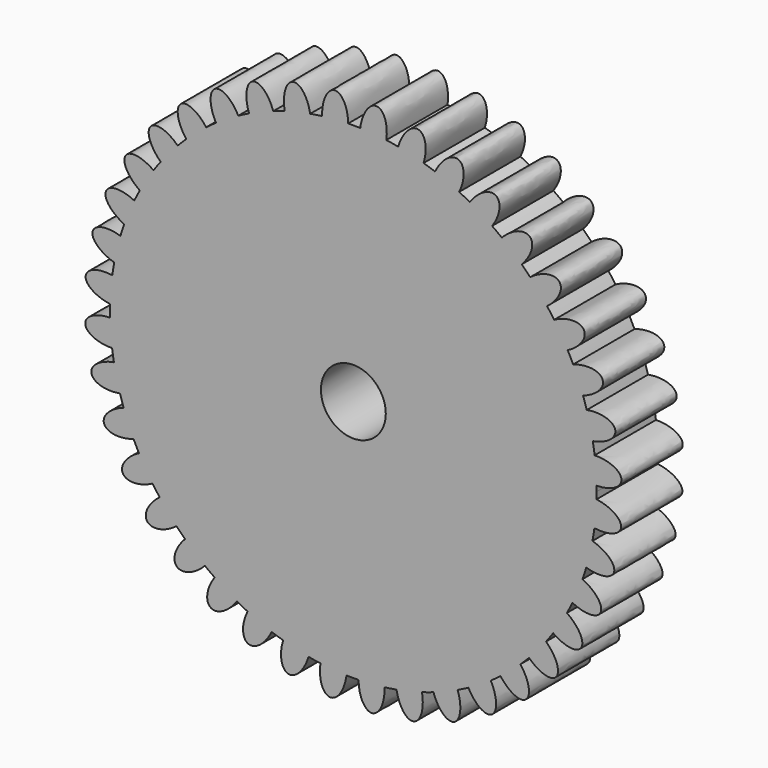
from build123d import *

# Parameters (mm, degrees)
F1_DEPTH = 6


with BuildPart() as f1:
    # F0 (on Front) → F1 (new body)
    with BuildSketch(Plane.XZ):
        with BuildLine():
            ThreePointArc((19.0635328343, -0.9611917266), (19.0692675678, -0.6913712295), (19.0711792735, -0.4214965675))
            ThreePointArc((19.0711792735, -0.4214965675), (19.0700978224, -0.2185135199), (19.0668535919, -0.0155535187))
            ThreePointArc((19.0668535919, -0.0155535187), (19.0175860362, 1.0064495468), (18.9135167865, 2.0243332088))
            ThreePointArc((18.9135167865, 2.0243332088), (18.846991093, 2.4924885622), (18.7688662529, 2.9588485221))
            ThreePointArc((18.7688662529, 2.9588485221), (18.5603287598, 3.9605618902), (18.2983086891, 4.9496336979))
            ThreePointArc((18.2983086891, 4.9496336979), (18.159366405, 5.4016183707), (18.0092486404, 5.850015248))
            ThreePointArc((18.0092486404, 5.850015248), (17.646576095, 6.8067734112), (17.2330570071, 7.742679134))
            ThreePointArc((17.2330570071, 7.742679134), (17.0251193526, 8.1673637636), (16.8067050612, 8.5867565391))
            ThreePointArc((16.8067050612, 8.5867565391), (16.2988276652, 9.475000936), (15.7439917724, 10.334695469))
            ThreePointArc((15.7439917724, 10.334695469), (15.4721788626, 10.7216229104), (15.1908461291, 11.101684742))
            ThreePointArc((15.1908461291, 11.101684742), (14.5502695095, 11.8995438477), (13.8677787129, 12.6618586584))
            ThreePointArc((13.8677787129, 12.6618586584), (13.5387834838, 13.0015014737), (13.2014596537, 13.3328739779))
            ThreePointArc((13.2014596537, 13.3328739779), (12.443956933, 14.0207018532), (11.650616421, 14.6668662209))
            ThreePointArc((11.650616421, 14.6668662209), (11.272539827, 14.9508612769), (10.8875309326, 15.2253849627))
            ThreePointArc((10.8875309326, 15.2253849627), (10.0317543417, 15.7862450027), (9.1470987906, 16.3003482161))
            ThreePointArc((9.1470987906, 16.3003482161), (8.7292503322, 16.521702612), (8.3060365703, 16.7326177953))
            ThreePointArc((8.3060365703, 16.7326177953), (7.3730581689, 17.1526997643), (6.4188707346, 17.5220828962))
            ThreePointArc((6.4188707346, 17.5220828962), (5.9715392275, 17.6753461521), (5.5205415254, 17.817459401))
            ThreePointArc((5.5205415254, 17.817459401), (4.5333343383, 18.0864194868), (3.533110282, 18.3019870985))
            ThreePointArc((3.533110282, 18.3019870985), (3.0673105127, 18.3833853644), (2.5996339306, 18.4531973792))
            ThreePointArc((2.5996339306, 18.4531973792), (1.582506275, 18.5644128918), (0.5608744326, 18.6208569933))
            Line((0.5608744326, 18.6208569933), (0.0931386281, 2.1174839073))
            ThreePointArc((0.0931386281, 2.1174839073), (1.8424942875, 1.3489303922), (2.5611792735, -0.4214965675))
            ThreePointArc((2.5611792735, -0.4214965675), (-1.6556151358, -2.3293646208), (-0.3049313633, 2.0974817676))
            Line((-0.3049313633, 2.0974817676), (-2.4246505028, 18.4708409455))
            ThreePointArc((-2.4246505028, 18.4708409455), (-2.8928058562, 18.404315252), (-3.359165816, 18.3261904119))
            ThreePointArc((-3.359165816, 18.3261904119), (-4.3608791842, 18.1176529187), (-5.3499509918, 17.8556328481))
            ThreePointArc((-5.3499509918, 17.8556328481), (-5.8019356647, 17.716690564), (-6.250332542, 17.5665727994))
            ThreePointArc((-6.250332542, 17.5665727994), (-7.2070907052, 17.203900254), (-8.142996428, 16.7903811661))
            ThreePointArc((-8.142996428, 16.7903811661), (-8.5676810576, 16.5824435116), (-8.9870738331, 16.3640292202))
            ThreePointArc((-8.9870738331, 16.3640292202), (-9.87531823, 15.8561518242), (-10.735012763, 15.3013159314))
            ThreePointArc((-10.735012763, 15.3013159314), (-11.1219402044, 15.0295030216), (-11.502002036, 14.7481702881))
            ThreePointArc((-11.502002036, 14.7481702881), (-12.2998611417, 14.1075936685), (-13.0621759523, 13.4251028719))
            ThreePointArc((-13.0621759523, 13.4251028719), (-13.4018187677, 13.0961076428), (-13.7331912718, 12.7587838127))
            ThreePointArc((-13.7331912718, 12.7587838127), (-14.4210191472, 12.001281092), (-15.0671835148, 11.20794058))
            ThreePointArc((-15.0671835148, 11.20794058), (-15.3511785709, 10.829863986), (-15.6257022567, 10.4448550916))
            ThreePointArc((-15.6257022567, 10.4448550916), (-16.1865622966, 9.5890785006), (-16.7006655101, 8.7044229496))
            ThreePointArc((-16.7006655101, 8.7044229496), (-16.922019906, 8.2865744912), (-17.1329350893, 7.8633607293))
            ThreePointArc((-17.1329350893, 7.8633607293), (-17.5530170582, 6.9303823279), (-17.9224001902, 5.9761948936))
            ThreePointArc((-17.9224001902, 5.9761948936), (-18.0756634461, 5.5288633865), (-18.217776695, 5.0778656844))
            ThreePointArc((-18.217776695, 5.0778656844), (-18.4867367807, 4.0906584973), (-18.7023043925, 3.090434441))
            ThreePointArc((-18.7023043925, 3.090434441), (-18.7837026584, 2.6246346717), (-18.8535146732, 2.1569580896))
            ThreePointArc((-18.8535146732, 2.1569580896), (-18.9647301857, 1.139830434), (-19.0211742873, 0.1181985916))
            ThreePointArc((-19.0211742873, 0.1181985916), (-19.0287032678, -0.3545999038), (-19.0244950448, -0.8274396163))
            ThreePointArc((-19.0244950448, -0.8274396163), (-18.9752274892, -1.8494426818), (-18.8711582395, -2.8673263438))
            ThreePointArc((-18.8711582395, -2.8673263438), (-18.804632546, -3.3354816972), (-18.7265077058, -3.801841657))
            ThreePointArc((-18.7265077058, -3.801841657), (-18.5179702127, -4.8035550252), (-18.255950142, -5.7926268328))
            ThreePointArc((-18.255950142, -5.7926268328), (-18.117007858, -6.2446115057), (-17.9668900934, -6.693008383))
            ThreePointArc((-17.9668900934, -6.693008383), (-17.604217548, -7.6497665462), (-17.19069846, -8.585672269))
            ThreePointArc((-17.19069846, -8.585672269), (-16.9827608055, -9.0103568986), (-16.7643465141, -9.4297496741))
            ThreePointArc((-16.7643465141, -9.4297496741), (-16.2564691181, -10.317994071), (-15.7016332253, -11.177688604))
            ThreePointArc((-15.7016332253, -11.177688604), (-15.4298203155, -11.5646160454), (-15.148487582, -11.944677877))
            ThreePointArc((-15.148487582, -11.944677877), (-14.5079109625, -12.7425369827), (-13.8254201658, -13.5048517933))
            ThreePointArc((-13.8254201658, -13.5048517933), (-13.4964249367, -13.8444946087), (-13.1591011067, -14.1758671128))
            ThreePointArc((-13.1591011067, -14.1758671128), (-12.401598386, -14.8636949882), (-11.6082578739, -15.5098593558))
            ThreePointArc((-11.6082578739, -15.5098593558), (-11.2301812799, -15.7938544119), (-10.8451723856, -16.0683780977))
            ThreePointArc((-10.8451723856, -16.0683780977), (-9.9893957946, -16.6292381377), (-9.1047402436, -17.1433413511))
            ThreePointArc((-9.1047402436, -17.1433413511), (-8.6868917851, -17.364695747), (-8.2636780232, -17.5756109303))
            ThreePointArc((-8.2636780232, -17.5756109303), (-7.3306996219, -17.9956928992), (-6.3765121875, -18.3650760312))
            ThreePointArc((-6.3765121875, -18.3650760312), (-5.9291806805, -18.5183392871), (-5.4781829784, -18.660452536))
            ThreePointArc((-5.4781829784, -18.660452536), (-4.4909757913, -18.9294126217), (-3.490751735, -19.1449802335))
            ThreePointArc((-3.490751735, -19.1449802335), (-3.0249519656, -19.2263784994), (-2.5572753836, -19.2961905142))
            ThreePointArc((-2.5572753836, -19.2961905142), (-1.540147728, -19.4074060267), (-0.5185158855, -19.4638501283))
            ThreePointArc((-0.5185158855, -19.4638501283), (-0.0457173901, -19.4713791088), (0.4271223223, -19.4671708858))
            ThreePointArc((0.4271223223, -19.4671708858), (1.4491253879, -19.4179033302), (2.4670090498, -19.3138340805))
            ThreePointArc((2.4670090498, -19.3138340805), (2.9351644032, -19.247308387), (3.4015243631, -19.1691835468))
            ThreePointArc((3.4015243631, -19.1691835468), (4.4032377313, -18.9606460537), (5.3923095389, -18.698625983))
            ThreePointArc((5.3923095389, -18.698625983), (5.8442942117, -18.559683699), (6.292691089, -18.4095659344))
            ThreePointArc((6.292691089, -18.4095659344), (7.2494492522, -18.046893389), (8.185354975, -17.6333743011))
            ThreePointArc((8.185354975, -17.6333743011), (8.6100396046, -17.4254366466), (9.0294323801, -17.2070223551))
            ThreePointArc((9.0294323801, -17.2070223551), (9.917676777, -16.6991449592), (10.77737131, -16.1443090663))
            ThreePointArc((10.77737131, -16.1443090663), (11.1642987514, -15.8724961566), (11.544360583, -15.591163423))
            ThreePointArc((11.544360583, -15.591163423), (12.3422196887, -14.9505868035), (13.1045344994, -14.2680960068))
            ThreePointArc((13.1045344994, -14.2680960068), (13.4441773147, -13.9391007777), (13.7755498189, -13.6017769477))
            ThreePointArc((13.7755498189, -13.6017769477), (14.4633776942, -12.844274227), (15.1095420619, -12.0509337149))
            ThreePointArc((15.1095420619, -12.0509337149), (15.3935371179, -11.6728571209), (15.6680608038, -11.2878482266))
            ThreePointArc((15.6680608038, -11.2878482266), (16.2289208437, -10.4320716356), (16.7430240571, -9.5474160846))
            ThreePointArc((16.7430240571, -9.5474160846), (16.9643784531, -9.1295676262), (17.1752936363, -8.7063538642))
            ThreePointArc((17.1752936363, -8.7063538642), (17.5953756053, -7.7733754629), (17.9647587372, -6.8191880285))
            ThreePointArc((17.9647587372, -6.8191880285), (18.1180219931, -6.3718565215), (18.2601352421, -5.9208588194))
            ThreePointArc((18.2601352421, -5.9208588194), (18.5290953278, -4.9336516323), (18.7446629395, -3.933427576))
            ThreePointArc((18.7446629395, -3.933427576), (18.8260612055, -3.4676278066), (18.8958732202, -2.9999512246))
            ThreePointArc((18.8958732202, -2.9999512246), (19.0070887328, -1.982823569), (19.0635328343, -0.9611917266))
        make_face()
        with BuildLine():
            ThreePointArc((18.9135167865, 2.0243332088), (19.0175860362, 1.0064495468), (19.0668535919, -0.0155535187))
            add(Edge.make_bspline(
                [(19.0668535919, -0.0155535187), (21.0910054041, 0.0099202739), (21.0132651128, 1.0441233025), (20.9355248215, 2.078326331), (18.9135167865, 2.0243332088)],
                knots=[1.5954119774, 1.5954119774, 1.5954119774, 3.1799968121, 3.1799968121, 4.7645816468, 4.7645816468, 4.7645816468], degree=2, weights=[1, 0.7022150415, 1, 0.7022150415, 1]))
        make_face()
        with BuildLine():
            add(Edge.make_bspline(
                [(18.8958732202, -2.9999512246), (20.8990893439, -3.2914381625), (20.9840911621, -2.2578066285), (21.0690929802, -1.2241750945), (19.0635328343, -0.9611917266)],
                knots=[1.5954119774, 1.5954119774, 1.5954119774, 3.1799968121, 3.1799968121, 4.7645816468, 4.7645816468, 4.7645816468], degree=2, weights=[1, 0.7022150415, 1, 0.7022150415, 1]))
            ThreePointArc((19.0635328343, -0.9611917266), (19.0070887328, -1.982823569), (18.8958732202, -2.9999512246))
        make_face()
        with BuildLine():
            ThreePointArc((18.2983086891, 4.9496336979), (18.5603287598, 3.9605618902), (18.7688662529, 2.9588485221))
            add(Edge.make_bspline(
                [(18.7688662529, 2.9588485221), (20.7641124183, 3.3006557959), (20.5255442414, 4.3099648081), (20.2869760646, 5.3192738204), (18.2983086891, 4.9496336979)],
                knots=[1.5954119774, 1.5954119774, 1.5954119774, 3.1799968121, 3.1799968121, 4.7645816468, 4.7645816468, 4.7645816468], degree=2, weights=[1, 0.7022150415, 1, 0.7022150415, 1]))
        make_face()
        with BuildLine():
            add(Edge.make_bspline(
                [(18.2601352421, -5.9208588194), (20.1930898479, -6.5221291121), (20.4387407487, -5.5145205115), (20.6843916495, -4.5069119108), (18.7446629395, -3.933427576)],
                knots=[1.5954119774, 1.5954119774, 1.5954119774, 3.1799968121, 3.1799968121, 4.7645816468, 4.7645816468, 4.7645816468], degree=2, weights=[1, 0.7022150415, 1, 0.7022150415, 1]))
            ThreePointArc((18.7446629395, -3.933427576), (18.5290953278, -4.9336516323), (18.2601352421, -5.9208588194))
        make_face()
        with BuildLine():
            ThreePointArc((17.2330570071, 7.742679134), (17.646576095, 6.8067734112), (18.0092486404, 5.850015248))
            add(Edge.make_bspline(
                [(18.0092486404, 5.850015248), (19.9264595766, 6.4997395736), (19.5329378545, 7.4593020319), (19.1394161324, 8.4188644903), (17.2330570071, 7.742679134)],
                knots=[1.5954119774, 1.5954119774, 1.5954119774, 3.1799968121, 3.1799968121, 4.7645816468, 4.7645816468, 4.7645816468], degree=2, weights=[1, 0.7022150415, 1, 0.7022150415, 1]))
        make_face()
        with BuildLine():
            add(Edge.make_bspline(
                [(17.1752936363, -8.7063538643), (18.9903909668, -9.6026022416), (19.3906422098, -8.6458272421), (19.7908934528, -7.6890522426), (17.9647587372, -6.8191880285)],
                knots=[1.5954119774, 1.5954119774, 1.5954119774, 3.1799968121, 3.1799968121, 4.7645816468, 4.7645816468, 4.7645816468], degree=2, weights=[1, 0.7022150415, 1, 0.7022150415, 1]))
            ThreePointArc((17.9647587372, -6.8191880285), (17.5953756053, -7.7733754629), (17.1752936363, -8.7063538642))
        make_face()
        with BuildLine():
            ThreePointArc((15.7439917724, 10.334695469), (16.2988276652, 9.475000936), (16.8067050612, 8.5867565391))
            add(Edge.make_bspline(
                [(16.8067050612, 8.5867565391), (18.598672672, 9.5283995473), (18.0598872155, 10.4145878394), (17.5211017589, 11.3007761314), (15.7439917724, 10.334695469)],
                knots=[1.5954119774, 1.5954119774, 1.5954119774, 3.1799968121, 3.1799968121, 4.7645816468, 4.7645816468, 4.7645816468], degree=2, weights=[1, 0.7022150415, 1, 0.7022150415, 1]))
        make_face()
        with BuildLine():
            add(Edge.make_bspline(
                [(15.6680608038, -11.2878482266), (17.3206071387, -12.4570060791), (17.8656032099, -11.5746236566), (18.4105992811, -10.6922412341), (16.7430240571, -9.5474160846)],
                knots=[1.5954119774, 1.5954119774, 1.5954119774, 3.1799968121, 3.1799968121, 4.7645816468, 4.7645816468, 4.7645816468], degree=2, weights=[1, 0.7022150415, 1, 0.7022150415, 1]))
            ThreePointArc((16.7430240571, -9.5474160846), (16.2289208437, -10.4320716356), (15.6680608038, -11.2878482266))
        make_face()
        with BuildLine():
            ThreePointArc((13.8677787129, 12.6618586584), (14.5502695095, 11.8995438477), (15.1908461291, 11.101684742))
            add(Edge.make_bspline(
                [(15.1908461291, 11.101684742), (16.8134462248, 12.3120600568), (16.1426637199, 13.1030532858), (15.471881215, 13.8940465148), (13.8677787129, 12.6618586584)],
                knots=[1.5954119774, 1.5954119774, 1.5954119774, 3.1799968121, 3.1799968121, 4.7645816468, 4.7645816468, 4.7645816468], degree=2, weights=[1, 0.7022150415, 1, 0.7022150415, 1]))
        make_face()
        with BuildLine():
            add(Edge.make_bspline(
                [(13.7755498189, -13.6017769477), (15.224853983, -15.0150557288), (15.9011752704, -14.228793067), (16.5774965578, -13.4425304052), (15.1095420619, -12.0509337149)],
                knots=[1.5954119774, 1.5954119774, 1.5954119774, 3.1799968121, 3.1799968121, 4.7645816468, 4.7645816468, 4.7645816468], degree=2, weights=[1, 0.7022150415, 1, 0.7022150415, 1]))
            ThreePointArc((15.1095420619, -12.0509337149), (14.4633776942, -12.844274227), (13.7755498189, -13.6017769477))
        make_face()
        with BuildLine():
            ThreePointArc((11.650616421, 14.6668662209), (12.443956933, 14.0207018532), (13.2014596537, 13.3328739779))
            add(Edge.make_bspline(
                [(13.2014596537, 13.3328739779), (14.6147384348, 14.782178142), (13.828475773, 15.4584994294), (13.0422131113, 16.1348207168), (11.650616421, 14.6668662209)],
                knots=[1.5954119774, 1.5954119774, 1.5954119774, 3.1799968121, 3.1799968121, 4.7645816468, 4.7645816468, 4.7645816468], degree=2, weights=[1, 0.7022150415, 1, 0.7022150415, 1]))
        make_face()
        with BuildLine():
            add(Edge.make_bspline(
                [(11.544360583, -15.591163423), (12.7547358978, -17.2137635187), (13.5457291268, -16.5429810138), (14.3367223558, -15.8721985089), (13.1045344994, -14.2680960068)],
                knots=[1.5954119774, 1.5954119774, 1.5954119774, 3.1799968121, 3.1799968121, 4.7645816468, 4.7645816468, 4.7645816468], degree=2, weights=[1, 0.7022150415, 1, 0.7022150415, 1]))
            ThreePointArc((13.1045344994, -14.2680960068), (12.3422196887, -14.9505868035), (11.544360583, -15.591163423))
        make_face()
        with BuildLine():
            ThreePointArc((9.1470987906, 16.3003482161), (10.0317543417, 15.7862450027), (10.8875309326, 15.2253849627))
            add(Edge.make_bspline(
                [(10.8875309326, 15.2253849627), (12.0566887851, 16.8779312977), (11.1743063626, 17.4229273689), (10.2919239401, 17.9679234401), (9.1470987906, 16.3003482161)],
                knots=[1.5954119774, 1.5954119774, 1.5954119774, 3.1799968121, 3.1799968121, 4.7645816468, 4.7645816468, 4.7645816468], degree=2, weights=[1, 0.7022150415, 1, 0.7022150415, 1]))
        make_face()
        with BuildLine():
            add(Edge.make_bspline(
                [(9.0294323801, -17.2070223551), (9.9710753883, -18.998989966), (10.8572636804, -18.4602045094), (11.7434519724, -17.9214190529), (10.77737131, -16.1443090663)],
                knots=[1.5954119774, 1.5954119774, 1.5954119774, 3.1799968121, 3.1799968121, 4.7645816468, 4.7645816468, 4.7645816468], degree=2, weights=[1, 0.7022150415, 1, 0.7022150415, 1]))
            ThreePointArc((10.77737131, -16.1443090663), (9.917676777, -16.6991449592), (9.0294323801, -17.2070223551))
        make_face()
        with BuildLine():
            ThreePointArc((6.4188707346, 17.5220828962), (7.3730581689, 17.1526997643), (8.3060365703, 16.7326177953))
            add(Edge.make_bspline(
                [(8.3060365703, 16.7326177953), (9.2022849477, 18.5477151258), (8.2455099482, 18.9479663688), (7.2887349487, 19.3482176118), (6.4188707346, 17.5220828962)],
                knots=[1.5954119774, 1.5954119774, 1.5954119774, 3.1799968121, 3.1799968121, 4.7645816468, 4.7645816468, 4.7645816468], degree=2, weights=[1, 0.7022150415, 1, 0.7022150415, 1]))
        make_face()
        with BuildLine():
            add(Edge.make_bspline(
                [(6.292691089, -18.4095659344), (6.9424154146, -20.3267768706), (7.901977873, -19.9332551484), (8.8615403313, -19.5397334263), (8.185354975, -17.6333743011)],
                knots=[1.5954119774, 1.5954119774, 1.5954119774, 3.1799968121, 3.1799968121, 4.7645816468, 4.7645816468, 4.7645816468], degree=2, weights=[1, 0.7022150415, 1, 0.7022150415, 1]))
            ThreePointArc((8.185354975, -17.6333743011), (7.2494492522, -18.046893389), (6.292691089, -18.4095659344))
        make_face()
        with BuildLine():
            ThreePointArc((3.533110282, 18.3019870985), (4.5333343383, 18.0864194868), (5.5205415254, 17.817459401))
            add(Edge.make_bspline(
                [(5.5205415254, 17.8174594011), (6.1218118182, 19.7504140069), (5.1142032175, 19.9960649077), (4.1065946169, 20.2417158085), (3.533110282, 18.3019870985)],
                knots=[1.5954119774, 1.5954119774, 1.5954119774, 3.1799968121, 3.1799968121, 4.7645816468, 4.7645816468, 4.7645816468], degree=2, weights=[1, 0.7022150415, 1, 0.7022150415, 1]))
        make_face()
        with BuildLine():
            add(Edge.make_bspline(
                [(3.4015243631, -19.1691835468), (3.7433316369, -21.1644297123), (4.7526406492, -20.9258615354), (5.7619496614, -20.6872933585), (5.3923095389, -18.698625983)],
                knots=[1.5954119774, 1.5954119774, 1.5954119774, 3.1799968121, 3.1799968121, 4.7645816468, 4.7645816468, 4.7645816468], degree=2, weights=[1, 0.7022150415, 1, 0.7022150415, 1]))
            ThreePointArc((5.3923095389, -18.698625983), (4.4032377313, -18.9606460537), (3.4015243631, -19.1691835468))
        make_face()
        with BuildLine():
            ThreePointArc((0.5608744326, 18.6208569933), (1.582506275, 18.5644128918), (2.5996339306, 18.4531973792))
            add(Edge.make_bspline(
                [(2.5996339306, 18.4531973792), (2.8911208686, 20.4564135029), (1.8574893346, 20.541415321), (0.8238578006, 20.6264171392), (0.5608744326, 18.6208569933)],
                knots=[1.5954119774, 1.5954119774, 1.5954119774, 3.1799968121, 3.1799968121, 4.7645816468, 4.7645816468, 4.7645816468], degree=2, weights=[1, 0.7022150415, 1, 0.7022150415, 1]))
        make_face()
        with BuildLine():
            add(Edge.make_bspline(
                [(0.4271223223, -19.4671708859), (0.4525961149, -21.4913226981), (1.4867991435, -21.4135824068), (2.521002172, -21.3358421154), (2.4670090498, -19.3138340805)],
                knots=[1.5954119774, 1.5954119774, 1.5954119774, 3.1799968121, 3.1799968121, 4.7645816468, 4.7645816468, 4.7645816468], degree=2, weights=[1, 0.7022150415, 1, 0.7022150415, 1]))
            ThreePointArc((2.4670090498, -19.3138340805), (1.4491253879, -19.4179033302), (0.4271223223, -19.4671708858))
        make_face()
        with BuildLine():
            Line((0.0931386281, 2.1174839073), (0.5608744326, 18.6208569933))
            ThreePointArc((0.5608744326, 18.6208569933), (0.0880759372, 18.6283859738), (-0.3847637753, 18.6241777509))
            ThreePointArc((-0.3847637753, 18.6241777509), (-1.4067668408, 18.5749101952), (-2.4246505028, 18.4708409455))
            Line((-2.4246505028, 18.4708409455), (-0.3049313633, 2.0974817676))
            ThreePointArc((-0.3049313633, 2.0974817676), (-0.1062893107, 2.1153029437), (0.0931386281, 2.1174839073))
        make_face()
        with BuildLine():
            ThreePointArc((-2.4246505028, 18.4708409455), (-1.4067668408, 18.5749101952), (-0.3847637753, 18.6241777509))
            add(Edge.make_bspline(
                [(-0.3847637753, 18.6241777509), (-0.4102375679, 20.6483295631), (-1.4444405964, 20.5705892718), (-2.478643625, 20.4928489804), (-2.4246505028, 18.4708409455)],
                knots=[1.5954119774, 1.5954119774, 1.5954119774, 3.1799968121, 3.1799968121, 4.7645816468, 4.7645816468, 4.7645816468], degree=2, weights=[1, 0.7022150415, 1, 0.7022150415, 1]))
        make_face()
        with BuildLine():
            add(Edge.make_bspline(
                [(-2.5572753836, -19.2961905142), (-2.8487623215, -21.2994066378), (-1.8151307875, -21.384408456), (-0.7814992535, -21.4694102742), (-0.5185158855, -19.4638501283)],
                knots=[1.5954119774, 1.5954119774, 1.5954119774, 3.1799968121, 3.1799968121, 4.7645816468, 4.7645816468, 4.7645816468], degree=2, weights=[1, 0.7022150415, 1, 0.7022150415, 1]))
            ThreePointArc((-0.5185158855, -19.4638501283), (-1.540147728, -19.4074060267), (-2.5572753836, -19.2961905142))
        make_face()
        with BuildLine():
            ThreePointArc((-5.3499509918, 17.8556328481), (-4.3608791842, 18.1176529187), (-3.359165816, 18.3261904119))
            add(Edge.make_bspline(
                [(-3.359165816, 18.3261904119), (-3.7009730899, 20.3214365773), (-4.7102821021, 20.0828684004), (-5.7195911143, 19.8443002236), (-5.3499509918, 17.8556328481)],
                knots=[1.5954119774, 1.5954119774, 1.5954119774, 3.1799968121, 3.1799968121, 4.7645816468, 4.7645816468, 4.7645816468], degree=2, weights=[1, 0.7022150415, 1, 0.7022150415, 1]))
        make_face()
        with BuildLine():
            add(Edge.make_bspline(
                [(-5.4781829784, -18.660452536), (-6.0794532711, -20.5934071419), (-5.0718446705, -20.8390580427), (-4.0642360698, -21.0847089435), (-3.490751735, -19.1449802335)],
                knots=[1.5954119774, 1.5954119774, 1.5954119774, 3.1799968121, 3.1799968121, 4.7645816468, 4.7645816468, 4.7645816468], degree=2, weights=[1, 0.7022150415, 1, 0.7022150415, 1]))
            ThreePointArc((-3.490751735, -19.1449802335), (-4.4909757913, -18.9294126217), (-5.4781829784, -18.660452536))
        make_face()
        with BuildLine():
            ThreePointArc((-8.142996428, 16.7903811661), (-7.2070907052, 17.203900254), (-6.250332542, 17.5665727994))
            add(Edge.make_bspline(
                [(-6.250332542, 17.5665727994), (-6.9000568676, 19.4837837356), (-7.8596193259, 19.0902620135), (-8.8191817842, 18.6967402914), (-8.142996428, 16.7903811661)],
                knots=[1.5954119774, 1.5954119774, 1.5954119774, 3.1799968121, 3.1799968121, 4.7645816468, 4.7645816468, 4.7645816468], degree=2, weights=[1, 0.7022150415, 1, 0.7022150415, 1]))
        make_face()
        with BuildLine():
            add(Edge.make_bspline(
                [(-8.2636780232, -17.5756109303), (-9.1599264006, -19.3907082608), (-8.2031514011, -19.7909595038), (-7.2463764016, -20.1912107468), (-6.3765121875, -18.3650760312)],
                knots=[1.5954119774, 1.5954119774, 1.5954119774, 3.1799968121, 3.1799968121, 4.7645816468, 4.7645816468, 4.7645816468], degree=2, weights=[1, 0.7022150415, 1, 0.7022150415, 1]))
            ThreePointArc((-6.3765121875, -18.3650760312), (-7.3306996219, -17.9956928992), (-8.2636780232, -17.5756109303))
        make_face()
        with BuildLine():
            ThreePointArc((-10.735012763, 15.3013159314), (-9.87531823, 15.8561518242), (-8.9870738331, 16.3640292202))
            add(Edge.make_bspline(
                [(-8.9870738331, 16.3640292202), (-9.9287168413, 18.155996831), (-10.8149051333, 17.6172113744), (-11.7010934254, 17.0784259179), (-10.735012763, 15.3013159314)],
                knots=[1.5954119774, 1.5954119774, 1.5954119774, 3.1799968121, 3.1799968121, 4.7645816468, 4.7645816468, 4.7645816468], degree=2, weights=[1, 0.7022150415, 1, 0.7022150415, 1]))
        make_face()
        with BuildLine():
            add(Edge.make_bspline(
                [(-10.8451723856, -16.0683780977), (-12.0143302381, -17.7209244326), (-11.1319478156, -18.2659205039), (-10.2495653931, -18.8109165751), (-9.1047402436, -17.1433413511)],
                knots=[1.5954119774, 1.5954119774, 1.5954119774, 3.1799968121, 3.1799968121, 4.7645816468, 4.7645816468, 4.7645816468], degree=2, weights=[1, 0.7022150415, 1, 0.7022150415, 1]))
            ThreePointArc((-9.1047402436, -17.1433413511), (-9.9893957946, -16.6292381377), (-10.8451723856, -16.0683780977))
        make_face()
        with BuildLine():
            ThreePointArc((-13.0621759523, 13.4251028719), (-12.2998611417, 14.1075936685), (-11.502002036, 14.7481702881))
            add(Edge.make_bspline(
                [(-11.502002036, 14.7481702881), (-12.7123773508, 16.3707703837), (-13.5033705797, 15.6999878788), (-14.2943638087, 15.0292053739), (-13.0621759523, 13.4251028719)],
                knots=[1.5954119774, 1.5954119774, 1.5954119774, 3.1799968121, 3.1799968121, 4.7645816468, 4.7645816468, 4.7645816468], degree=2, weights=[1, 0.7022150415, 1, 0.7022150415, 1]))
        make_face()
        with BuildLine():
            add(Edge.make_bspline(
                [(-13.1591011067, -14.1758671128), (-14.5723798878, -15.6251712769), (-13.786117226, -16.3014925644), (-12.9998545642, -16.9778138518), (-11.6082578739, -15.5098593558)],
                knots=[1.5954119774, 1.5954119774, 1.5954119774, 3.1799968121, 3.1799968121, 4.7645816468, 4.7645816468, 4.7645816468], degree=2, weights=[1, 0.7022150415, 1, 0.7022150415, 1]))
            ThreePointArc((-11.6082578739, -15.5098593558), (-12.401598386, -14.8636949882), (-13.1591011067, -14.1758671128))
        make_face()
        with BuildLine():
            ThreePointArc((-15.0671835148, 11.20794058), (-14.4210191472, 12.001281092), (-13.7331912718, 12.7587838127))
            add(Edge.make_bspline(
                [(-13.7331912718, 12.7587838127), (-15.1824954359, 14.1720625938), (-15.8588167234, 13.385799932), (-16.5351380108, 12.5995372702), (-15.0671835148, 11.20794058)],
                knots=[1.5954119774, 1.5954119774, 1.5954119774, 3.1799968121, 3.1799968121, 4.7645816468, 4.7645816468, 4.7645816468], degree=2, weights=[1, 0.7022150415, 1, 0.7022150415, 1]))
        make_face()
        with BuildLine():
            add(Edge.make_bspline(
                [(-15.148487582, -11.944677877), (-16.7710876777, -13.1550531918), (-16.1003051728, -13.9460464207), (-15.4295226679, -14.7370396497), (-13.8254201658, -13.5048517933)],
                knots=[1.5954119774, 1.5954119774, 1.5954119774, 3.1799968121, 3.1799968121, 4.7645816468, 4.7645816468, 4.7645816468], degree=2, weights=[1, 0.7022150415, 1, 0.7022150415, 1]))
            ThreePointArc((-13.8254201658, -13.5048517933), (-14.5079109625, -12.7425369827), (-15.148487582, -11.944677877))
        make_face()
        with BuildLine():
            ThreePointArc((-16.7006655101, 8.7044229496), (-16.1865622966, 9.5890785006), (-15.6257022567, 10.4448550916))
            add(Edge.make_bspline(
                [(-15.6257022567, 10.4448550916), (-17.2782485916, 11.6140129441), (-17.8232446628, 10.7316305216), (-18.3682407341, 9.8492480991), (-16.7006655101, 8.7044229496)],
                knots=[1.5954119774, 1.5954119774, 1.5954119774, 3.1799968121, 3.1799968121, 4.7645816468, 4.7645816468, 4.7645816468], degree=2, weights=[1, 0.7022150415, 1, 0.7022150415, 1]))
        make_face()
        with BuildLine():
            add(Edge.make_bspline(
                [(-16.7643465141, -9.4297496741), (-18.5563141249, -10.3713926823), (-18.0175286684, -11.2575809743), (-17.4787432119, -12.1437692664), (-15.7016332253, -11.177688604)],
                knots=[1.5954119774, 1.5954119774, 1.5954119774, 3.1799968121, 3.1799968121, 4.7645816468, 4.7645816468, 4.7645816468], degree=2, weights=[1, 0.7022150415, 1, 0.7022150415, 1]))
            ThreePointArc((-15.7016332253, -11.177688604), (-16.2564691181, -10.317994071), (-16.7643465141, -9.4297496741))
        make_face()
        with BuildLine():
            ThreePointArc((-17.9224001902, 5.9761948936), (-17.5530170582, 6.9303823279), (-17.1329350893, 7.8633607293))
            add(Edge.make_bspline(
                [(-17.1329350893, 7.8633607293), (-18.9480324198, 8.7596091067), (-19.3482836628, 7.8028341072), (-19.7485349058, 6.8460591077), (-17.9224001902, 5.9761948936)],
                knots=[1.5954119774, 1.5954119774, 1.5954119774, 3.1799968121, 3.1799968121, 4.7645816468, 4.7645816468, 4.7645816468], degree=2, weights=[1, 0.7022150415, 1, 0.7022150415, 1]))
        make_face()
        with BuildLine():
            add(Edge.make_bspline(
                [(-17.9668900934, -6.693008383), (-19.8841010296, -7.3427327086), (-19.4905793074, -8.3022951669), (-19.0970575853, -9.2618576252), (-17.19069846, -8.585672269)],
                knots=[1.5954119774, 1.5954119774, 1.5954119774, 3.1799968121, 3.1799968121, 4.7645816468, 4.7645816468, 4.7645816468], degree=2, weights=[1, 0.7022150415, 1, 0.7022150415, 1]))
            ThreePointArc((-17.19069846, -8.585672269), (-17.604217548, -7.6497665462), (-17.9668900934, -6.693008383))
        make_face()
        with BuildLine():
            ThreePointArc((-18.7023043925, 3.090434441), (-18.4867367807, 4.0906584973), (-18.217776695, 5.0778656844))
            add(Edge.make_bspline(
                [(-18.217776695, 5.0778656844), (-20.1507313008, 5.6791359772), (-20.3963822016, 4.6715273765), (-20.6420331025, 3.6639187759), (-18.7023043925, 3.090434441)],
                knots=[1.5954119774, 1.5954119774, 1.5954119774, 3.1799968121, 3.1799968121, 4.7645816468, 4.7645816468, 4.7645816468], degree=2, weights=[1, 0.7022150415, 1, 0.7022150415, 1]))
        make_face()
        with BuildLine():
            add(Edge.make_bspline(
                [(-18.7265077058, -3.801841657), (-20.7217538713, -4.1436489309), (-20.4831856944, -5.1529579431), (-20.2446175175, -6.1622669553), (-18.255950142, -5.7926268328)],
                knots=[1.5954119774, 1.5954119774, 1.5954119774, 3.1799968121, 3.1799968121, 4.7645816468, 4.7645816468, 4.7645816468], degree=2, weights=[1, 0.7022150415, 1, 0.7022150415, 1]))
            ThreePointArc((-18.255950142, -5.7926268328), (-18.5179702127, -4.8035550252), (-18.7265077058, -3.801841657))
        make_face()
        with BuildLine():
            ThreePointArc((-19.0211742873, 0.1181985916), (-18.9647301857, 1.139830434), (-18.8535146732, 2.1569580896))
            add(Edge.make_bspline(
                [(-18.8535146732, 2.1569580896), (-20.8567307968, 2.4484450276), (-20.941732615, 1.4148134936), (-21.0267344332, 0.3811819596), (-19.0211742873, 0.1181985916)],
                knots=[1.5954119774, 1.5954119774, 1.5954119774, 3.1799968121, 3.1799968121, 4.7645816468, 4.7645816468, 4.7645816468], degree=2, weights=[1, 0.7022150415, 1, 0.7022150415, 1]))
        make_face()
        with BuildLine():
            add(Edge.make_bspline(
                [(-19.0244950448, -0.8274396163), (-21.0486468571, -0.8529134089), (-20.9709065657, -1.8871164374), (-20.8931662744, -2.921319466), (-18.8711582395, -2.8673263438)],
                knots=[1.5954119774, 1.5954119774, 1.5954119774, 3.1799968121, 3.1799968121, 4.7645816468, 4.7645816468, 4.7645816468], degree=2, weights=[1, 0.7022150415, 1, 0.7022150415, 1]))
            ThreePointArc((-18.8711582395, -2.8673263438), (-18.9752274892, -1.8494426818), (-19.0244950448, -0.8274396163))
        make_face()
    extrude(amount=F1_DEPTH)


solid = f1.part
